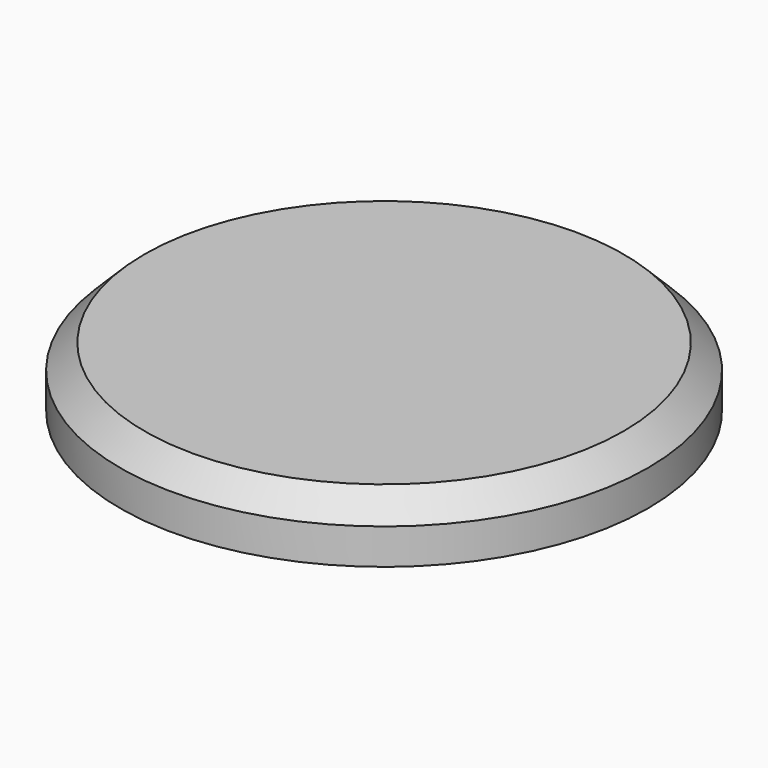
from build123d import *

# Parameters (mm, degrees)
F0_R     = 11
F1_DEPTH = 2.5
F2_SIZE  = 1.016
F3_R     = 8.25
F4_DEPTH = 0.5


with BuildPart() as f1:
    # F0 (on Top) → F1 (new body)
    with BuildSketch(Plane.XY):
        Circle(F0_R)
    extrude(amount=F1_DEPTH)

    # F2
    f2_edges = [f1.edges().sort_by_distance(p)[0] for p in [
        (-11, 0, 2.5),
    ]]
    chamfer(f2_edges, length=F2_SIZE)

    # F3 (on face) → F4 (cut)
    with BuildSketch(Plane(origin=(0, 0, 0), x_dir=(1, 0, 0), z_dir=(0, 0, -1))):
        Circle(F3_R)
    extrude(amount=-F4_DEPTH, mode=Mode.SUBTRACT)


solid = f1.part
